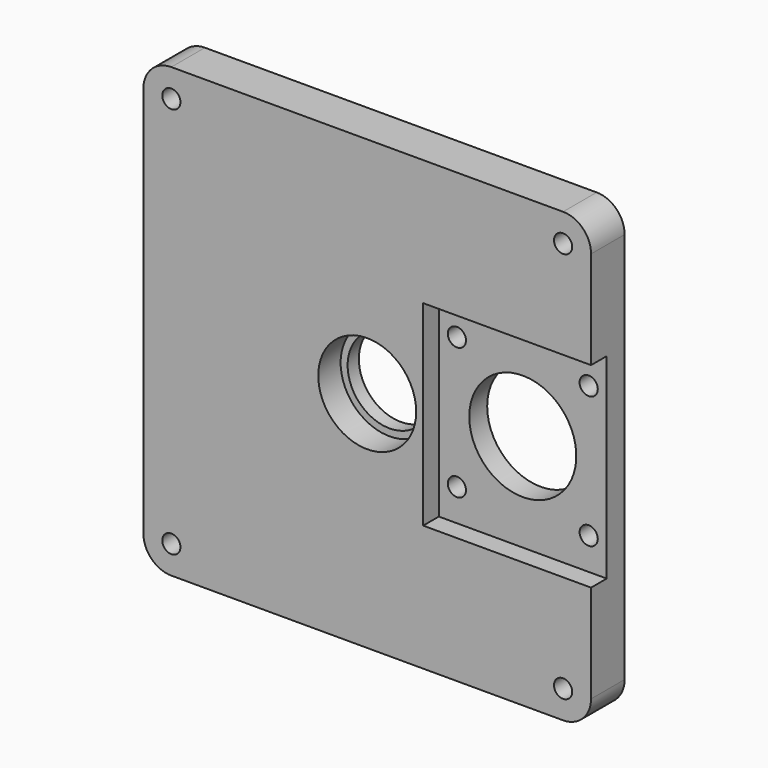
from build123d import *

# Parameters (mm, degrees)
F0_W      = 160
F0_H      = 160
F1_DEPTH  = 15
F2_R      = 15
F3_DEPTH  = 25
F4_R      = 17.5
F5_DEPTH  = 10
F6_R      = 10
F7_W      = 60
F7_H      = 70
F8_DEPTH  = 7
F9_R      = 19.125
F10_DEPTH = 25
F11_R     = 3.25
F12_DEPTH = 25
F13_R     = 3.25
F14_DEPTH = 25


with BuildPart() as f1:
    # F0 (on Front) → F1 (new body)
    with BuildSketch(Plane.XZ):
        Rectangle(F0_W, F0_H)
    extrude(amount=F1_DEPTH)

    # F2 (on face) → F3 (cut)
    with BuildSketch(Plane.XZ.offset(15)):
        Circle(F2_R)
    extrude(amount=-F3_DEPTH, mode=Mode.SUBTRACT)

    # F4 (on face) → F5 (cut)
    with BuildSketch(Plane.XZ.offset(15)):
        Circle(F4_R)
    extrude(amount=-F5_DEPTH, mode=Mode.SUBTRACT)

    # F6
    f6_edges = [f1.edges().sort_by_distance(p)[0] for p in [
        (80, -7.5, 80),
        (80, -7.5, -80),
        (-80, -7.5, -80),
        (-80, -7.5, 80),
    ]]
    fillet(f6_edges, radius=F6_R)

    # F7 (on face) → F8 (cut)
    with BuildSketch(Plane.XZ.offset(15)):
        with Locations((50, 0)):
            Rectangle(F7_W, F7_H)
    extrude(amount=-F8_DEPTH, mode=Mode.SUBTRACT)

    # F9 (on face) → F10 (cut)
    with BuildSketch(Plane(origin=(0, 0, 0), x_dir=(-1, 0, 0), z_dir=(0, 1, 0))):
        with Locations((-50, 0)):
            Circle(F9_R)
    extrude(amount=-F10_DEPTH, mode=Mode.SUBTRACT)

    # F11 (on face) → F12 (cut)
    with BuildSketch(Plane.XZ.offset(8)):
        with Locations((26.45, 23.55)):
            Circle(F11_R)
        with Locations((26.45, -23.55)):
            Circle(F11_R)
        with Locations((73.55, -23.55)):
            Circle(F11_R)
        with Locations((73.55, 23.55)):
            Circle(F11_R)
    extrude(amount=-F12_DEPTH, mode=Mode.SUBTRACT)

    # F13 (on face) → F14 (cut)
    with BuildSketch(Plane.XZ.offset(15)):
        with Locations((70, 70)):
            Circle(F13_R)
        with Locations((-70, 70)):
            Circle(F13_R)
        with Locations((-70, -70)):
            Circle(F13_R)
        with Locations((70, -70)):
            Circle(F13_R)
    extrude(amount=-F14_DEPTH, mode=Mode.SUBTRACT)


solid = f1.part
